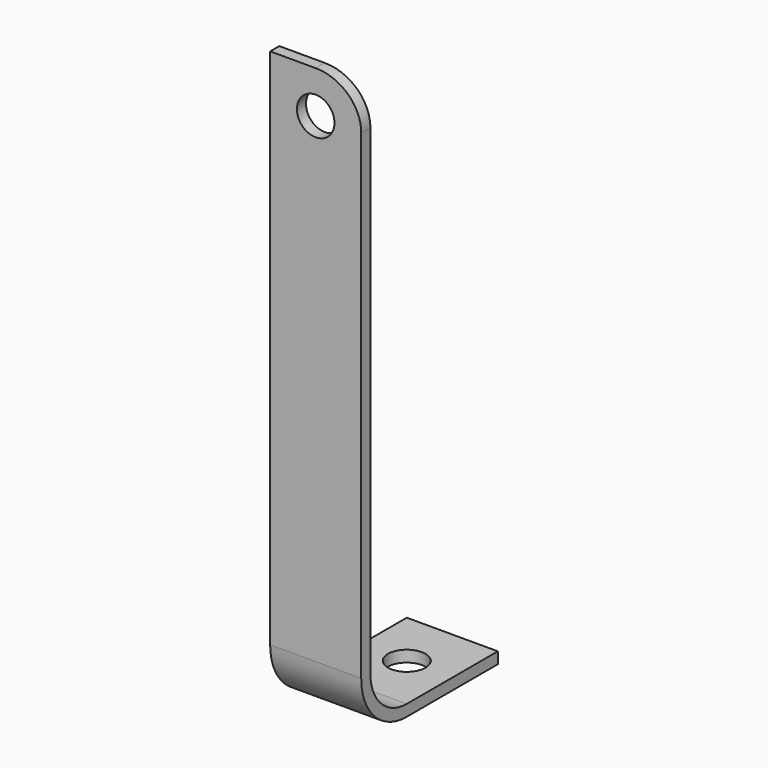
from build123d import *

# Parameters (mm, degrees)
F2_W     = 8
F2_H     = 1
F5_D     = 3.3
F7_D     = 3.3
F9_DEPTH = 15.001


with BuildPart() as f3:
    # F3: sweep along a path in F0
    with BuildLine(Plane.YZ) as f3_path:
        Line((15, 0), (5, 0))
        ThreePointArc((5, 0), (1.4644660941, 1.4644660941), (0, 5))
        Line((0, 5), (0, 50.8934259415))
    # F2 (on line) → F3 (sweep)
    with BuildSketch(Plane.XZ.offset(-15)):
        with Locations((-4, 0.5)):
            Rectangle(F2_W, F2_H)
    sweep(path=f3_path.line)

    # F5 (through all)
    with Locations(Plane.XY.offset(1)):
        with Locations((-4, 10)):
            Hole(F5_D / 2)

    # F7 (through all)
    with Locations(Plane.XZ):
        with Locations((-4, 47.1934259415)):
            Hole(F7_D / 2)

    # F8 (on face) → F9 (cut, through all)
    with BuildSketch(Plane.XZ):
        with BuildLine():
            add(Edge.make_bspline(
                [(0, 47.1934259415), (0, 50.8934259415), (-4, 50.8934259415)],
                knots=[0, 0, 0, 1.5707963268, 1.5707963268, 1.5707963268], degree=2, weights=[1, 0.7071067812, 1]))
            Line((0, 47.1934259415), (0, 50.8934259415))
            Line((0, 50.8934259415), (-4, 50.8934259415))
        make_face()
    extrude(amount=-F9_DEPTH, mode=Mode.SUBTRACT)


solid = f3.part
